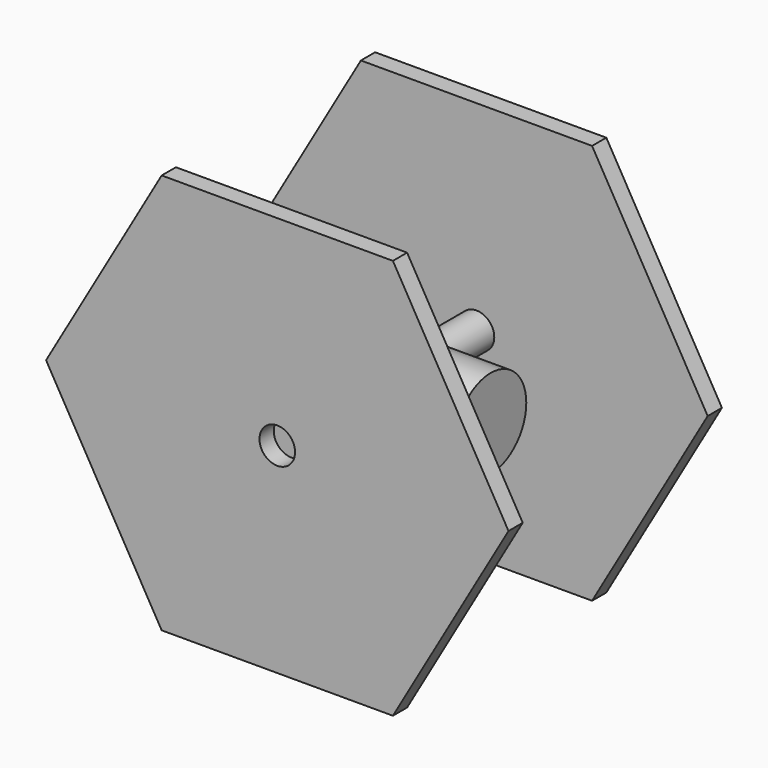
from build123d import *

# Parameters (mm, degrees)
F0_R     = 6.35
F1_DEPTH = 82.55
F2_R     = 6.35
F3_DEPTH = 6.35
F5_DEPTH = 6.35
F6_R     = 15.875
F7_DEPTH = 38.1


with BuildPart() as f1:
    # F0 (on Front) → F1 (new body)
    with BuildSketch(Plane.XZ):
        Circle(F0_R)
    extrude(amount=F1_DEPTH)


with BuildPart() as f3:
    # F2 (on face) → F3 (new body)
    with BuildSketch(Plane.XZ.offset(82.55)):
        Polygon((41.275, 71.490397), (-41.275, 71.490397), (-82.55, 0), (-41.275, -71.490397), (41.275, -71.490397), (82.55, 0), align=None)
        Circle(F2_R, mode=Mode.SUBTRACT)
    extrude(amount=F3_DEPTH)


with BuildPart() as f5:
    # F4 (on face) → F5 (new body)
    with BuildSketch(Plane(origin=(0, 0, 0), x_dir=(-1, 0, 0), z_dir=(0, 1, 0))):
        Polygon((82.55, 0), (41.275, 71.490397), (-41.275, 71.490397), (-82.55, 0), (-41.275, -71.490397), (41.275, -71.490397), align=None)
    extrude(amount=F5_DEPTH)


with BuildPart() as f7:
    # F6 (on Right) → F7 (new body, symmetric)
    with BuildSketch(Plane.YZ):
        with Locations((-41.275, 0)):
            Circle(F6_R)
    extrude(amount=F7_DEPTH, both=True)


solid = Compound([f1.part, f3.part, f5.part, f7.part])
